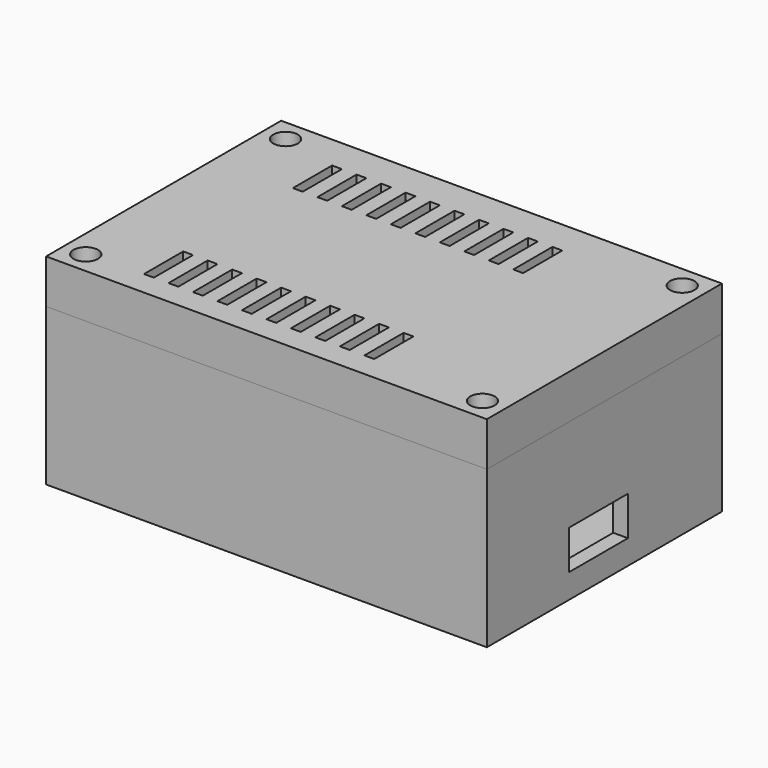
from build123d import *

# Parameters (mm, degrees)
F0_W      = 90
F0_H      = 60
F1_DEPTH  = 4
F3_D      = 5
F4_R      = 5.3432475284
F5_DEPTH  = 4
F6_D      = 2.5
F7_W      = 2
F7_H      = 10
F8_DEPTH  = 5
F9_W      = 90
F9_H      = 60
F9_W_2    = 6
F9_H_2    = 6
F10_DEPTH = 28
F11_W     = 15
F11_H     = 8
F12_DEPTH = 5
F13_R     = 1
F14_DEPTH = 10
F15_W     = 90
F15_H     = 60
F16_DEPTH = 9
F17_DEPTH = 40
F18_W     = 6.1114169657
F18_H     = 41.73226282
F18_W_2   = 5.9368070215
F18_H_2   = 42.0814864337
F19_DEPTH = 6
F20_R     = 2.5
F21_DEPTH = 5
F22_R     = 0.5
F23_DEPTH = 10


with BuildPart() as f1:
    # F0 (on Top) → F1 (new body)
    with BuildSketch(Plane.XY):
        with Locations((-15.6277725473, -6.2566422095)):
            Rectangle(F0_W, F0_H)
    extrude(amount=F1_DEPTH)

    # F3 (through all)
    with Locations(Plane.XY.offset(4)):
        with Locations((-50.6277725473, 6.2433577905), (8.3722274527, 6.2433577905), (8.3722274527, -20.2566422095), (-50.6277725473, -20.2566422095)):
            Hole(F3_D / 2)

    # F4 (on face) → F5 (join)
    with BuildSketch(Plane.XY.offset(4)):
        with Locations((-50.6277725473, 6.2433577905)):
            Circle(F4_R)
        with Locations((-50.6277725473, -20.2566422095)):
            Circle(F4_R)
        with Locations((8.3722274527, -20.2566422095)):
            Circle(F4_R)
        with Locations((8.3722274527, 6.2433577905)):
            Circle(F4_R)
    extrude(amount=F5_DEPTH)

    # F6 (through all)
    with Locations(Plane(origin=(0, 0, 4), x_dir=(1, 0, 0), z_dir=(0, 0, -1))):
        with Locations((-50.6277725473, -6.2433577905), (8.3722274527, -6.2433577905), (8.3722274527, 20.2566422095), (-50.6277725473, 20.2566422095)):
            Hole(F6_D / 2)

    # F7 (on face) → F8 (cut)
    with BuildSketch(Plane.XY.offset(4)):
        with Locations((-43.6277725473, -26.2566422095)):
            Rectangle(F7_W, F7_H)
        with Locations((-38.6277725473, -26.2566422095)):
            Rectangle(F7_W, F7_H)
        with Locations((-33.6277725473, -26.2566422095)):
            Rectangle(F7_W, F7_H)
        with Locations((-28.6277725473, -26.2566422095)):
            Rectangle(F7_W, F7_H)
        with Locations((-23.6277725473, -26.2566422095)):
            Rectangle(F7_W, F7_H)
        with Locations((-18.6277725473, -26.2566422095)):
            Rectangle(F7_W, F7_H)
        with Locations((-13.6277725473, -26.2566422095)):
            Rectangle(F7_W, F7_H)
        with Locations((-8.6277725473, -26.2566422095)):
            Rectangle(F7_W, F7_H)
        with Locations((-3.6277725473, -26.2566422095)):
            Rectangle(F7_W, F7_H)
        with Locations((1.3722274527, -26.2566422095)):
            Rectangle(F7_W, F7_H)
        with Locations((-43.6277725473, 11.7433577905)):
            Rectangle(F7_W, F7_H)
        with Locations((-38.6277725473, 11.7433577905)):
            Rectangle(F7_W, F7_H)
        with Locations((-33.6277725473, 11.7433577905)):
            Rectangle(F7_W, F7_H)
        with Locations((-28.6277725473, 11.7433577905)):
            Rectangle(F7_W, F7_H)
        with Locations((-23.6277725473, 11.7433577905)):
            Rectangle(F7_W, F7_H)
        with Locations((-18.6277725473, 11.7433577905)):
            Rectangle(F7_W, F7_H)
        with Locations((-13.6277725473, 11.7433577905)):
            Rectangle(F7_W, F7_H)
        with Locations((-8.6277725473, 11.7433577905)):
            Rectangle(F7_W, F7_H)
        with Locations((-3.6277725473, 11.7433577905)):
            Rectangle(F7_W, F7_H)
        with Locations((1.3722274527, 11.7433577905)):
            Rectangle(F7_W, F7_H)
    extrude(amount=-F8_DEPTH, mode=Mode.SUBTRACT)

    # F9 (on face) → F10 (join)
    with BuildSketch(Plane.XY.offset(4)):
        with Locations((-15.6277725473, -6.2566422095)):
            Rectangle(F9_W, F9_H)
        Polygon((-57.6277725473, 14.7433577905), (-57.6277725473, 20.7433577905), (-51.6277725473, 20.7433577905), (20.3722274527, 20.7433577905), (26.3722274527, 20.7433577905), (26.3722274527, 14.7433577905), (26.3722274527, -27.2566422095), (26.3722274527, -33.2566422095), (20.3722274527, -33.2566422095), (-51.6277725473, -33.2566422095), (-57.6277725473, -33.2566422095), (-57.6277725473, -27.2566422095), align=None, mode=Mode.SUBTRACT)
        with Locations((-54.6277725473, 17.7433577905)):
            Rectangle(F9_W_2, F9_H_2)
        with Locations((23.3722274527, 17.7433577905)):
            Rectangle(F9_W_2, F9_H_2)
        with Locations((23.3722274527, -30.2566422095)):
            Rectangle(F9_W_2, F9_H_2)
        with Locations((-54.6277725473, -30.2566422095)):
            Rectangle(F9_W_2, F9_H_2)
    extrude(amount=F10_DEPTH)

    # F11 (on face) → F12 (cut)
    with BuildSketch(Plane.YZ.offset(29.3722274527)):
        with Locations((-7.7566422095, 8.9764416181)):
            Rectangle(F11_W, F11_H)
    extrude(amount=-F12_DEPTH, mode=Mode.SUBTRACT)

    # F13 (on face) → F14 (cut)
    with BuildSketch(Plane.XY.offset(32)):
        with Locations((-56.1277725473, 19.2433577905)):
            Circle(F13_R)
        with Locations((24.8722274527, 19.2433577905)):
            Circle(F13_R)
        with Locations((24.8722274527, -31.7566422095)):
            Circle(F13_R)
        with Locations((-56.1277725473, -31.7566422095)):
            Circle(F13_R)
    extrude(amount=-F14_DEPTH, mode=Mode.SUBTRACT)


with BuildPart() as f16:
    # F15 (on face) → F16 (new body)
    with BuildSketch(Plane.XY.offset(32)):
        with Locations((-15.6277725473, -6.2566422095)):
            Rectangle(F15_W, F15_H)
    extrude(amount=F16_DEPTH)

    # F7 (on face) → F17 (cut)
    with BuildSketch(Plane.XY.offset(4)):
        with Locations((-43.6277725473, -26.2566422095)):
            Rectangle(F7_W, F7_H)
        with Locations((-38.6277725473, -26.2566422095)):
            Rectangle(F7_W, F7_H)
        with Locations((-33.6277725473, -26.2566422095)):
            Rectangle(F7_W, F7_H)
        with Locations((-28.6277725473, -26.2566422095)):
            Rectangle(F7_W, F7_H)
        with Locations((-23.6277725473, -26.2566422095)):
            Rectangle(F7_W, F7_H)
        with Locations((-18.6277725473, -26.2566422095)):
            Rectangle(F7_W, F7_H)
        with Locations((-13.6277725473, -26.2566422095)):
            Rectangle(F7_W, F7_H)
        with Locations((-8.6277725473, -26.2566422095)):
            Rectangle(F7_W, F7_H)
        with Locations((-3.6277725473, -26.2566422095)):
            Rectangle(F7_W, F7_H)
        with Locations((1.3722274527, -26.2566422095)):
            Rectangle(F7_W, F7_H)
        with Locations((-43.6277725473, 11.7433577905)):
            Rectangle(F7_W, F7_H)
        with Locations((-38.6277725473, 11.7433577905)):
            Rectangle(F7_W, F7_H)
        with Locations((-33.6277725473, 11.7433577905)):
            Rectangle(F7_W, F7_H)
        with Locations((-28.6277725473, 11.7433577905)):
            Rectangle(F7_W, F7_H)
        with Locations((-23.6277725473, 11.7433577905)):
            Rectangle(F7_W, F7_H)
        with Locations((-18.6277725473, 11.7433577905)):
            Rectangle(F7_W, F7_H)
        with Locations((-13.6277725473, 11.7433577905)):
            Rectangle(F7_W, F7_H)
        with Locations((-8.6277725473, 11.7433577905)):
            Rectangle(F7_W, F7_H)
        with Locations((-3.6277725473, 11.7433577905)):
            Rectangle(F7_W, F7_H)
        with Locations((1.3722274527, 11.7433577905)):
            Rectangle(F7_W, F7_H)
    extrude(amount=F17_DEPTH, mode=Mode.SUBTRACT)

    # F18 (on face) → F19 (cut)
    with BuildSketch(Plane.XY.offset(32)):
        Polygon((20.3422959894, 20.5169077963), (-51.4232292771, 20.5169077963), (-51.4232292771, 14.7547125816), (-51.4232292771, -26.9775502384), (-51.4232292771, -33.0889709294), (20.3422959894, -33.0889709294), (20.3422959894, -27.3267738521), (20.3422959894, 14.7547125816), align=None)
        with Locations((-54.47893776, -6.1114188284)):
            Rectangle(F18_W, F18_H)
        with Locations((23.3106995001, -6.2860306352)):
            Rectangle(F18_W_2, F18_H_2)
    extrude(amount=F19_DEPTH, mode=Mode.SUBTRACT)

    # F20 (on face) → F21 (cut)
    with BuildSketch(Plane.XY.offset(41)):
        with Locations((-56.1277725473, 19.2433577905)):
            Circle(F20_R)
        with Locations((24.8722274527, 19.2433577905)):
            Circle(F20_R)
        with Locations((24.8722274527, -31.7566422095)):
            Circle(F20_R)
        with Locations((-56.1277725473, -31.7566422095)):
            Circle(F20_R)
    extrude(amount=-F21_DEPTH, mode=Mode.SUBTRACT)

    # F22 (on face) → F23 (cut)
    with BuildSketch(Plane.XY.offset(41)):
        with Locations((-56.1277725473, 19.2433577905)):
            Circle(F22_R)
        with Locations((24.8722274527, 19.2433577905)):
            Circle(F22_R)
        with Locations((24.8722274527, -31.7566422095)):
            Circle(F22_R)
        with Locations((-56.1277725473, -31.7566422095)):
            Circle(F22_R)
    extrude(amount=-F23_DEPTH, mode=Mode.SUBTRACT)


solid = Compound([f1.part, f16.part])
